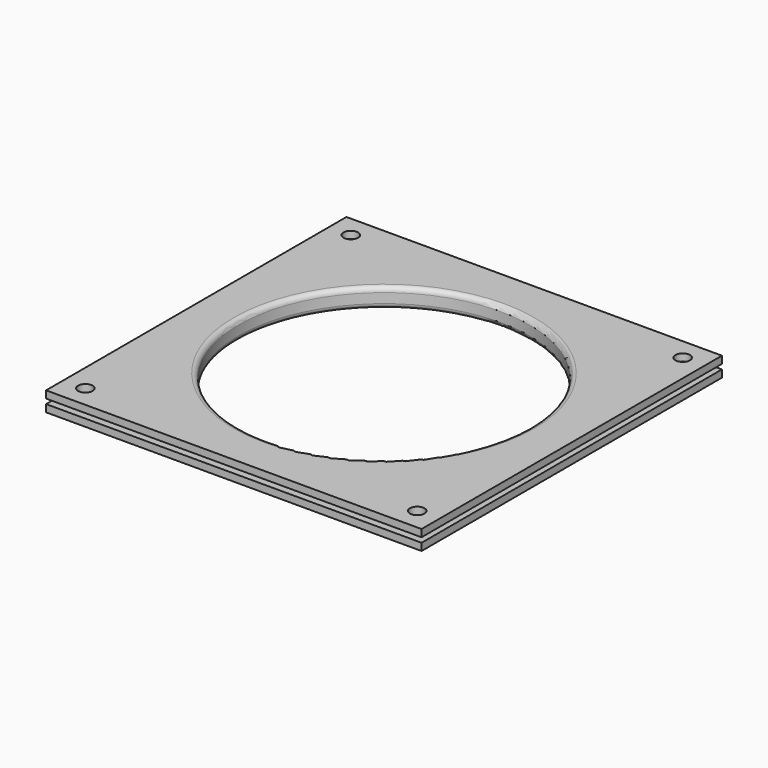
from build123d import *

# Parameters (mm, degrees)
CYLINDER058_R     = 3
CYLINDER058_DEPTH = 4
CYLINDER059_R     = 3
CYLINDER059_DEPTH = 4
CYLINDER060_R     = 3
CYLINDER060_DEPTH = 4
CYLINDER061_R     = 3
CYLINDER061_DEPTH = 4
CYLINDER062_R     = 3
CYLINDER062_DEPTH = 4
CYLINDER063_R     = 3
CYLINDER063_DEPTH = 4
CYLINDER064_R     = 3
CYLINDER064_DEPTH = 4
CYLINDER065_R     = 3
CYLINDER065_DEPTH = 4
CYLINDER056_R     = 60
CYLINDER056_DEPTH = 8
BOX015_W          = 155
BOX015_H          = 155
BOX015_DEPTH      = 3
CYLINDER057_R     = 65
CYLINDER057_DEPTH = 8
BOX016_W          = 155
BOX016_H          = 155
BOX016_DEPTH      = 3
FILLET008_R       = 2


with BuildPart() as cylinder086:
    # Cylinder058 → Cylinder058 (new body)
    with BuildSketch(Plane(origin=(35, 62.5, -30), x_dir=(1, 0, 0), z_dir=(0, 0, 1))):
        Circle(CYLINDER058_R)
    extrude(amount=CYLINDER058_DEPTH)


with BuildPart() as cylinder087:
    # Cylinder059 → Cylinder059 (new body)
    with BuildSketch(Plane(origin=(35, -62.5, -30), x_dir=(1, 0, 0), z_dir=(0, 0, 1))):
        Circle(CYLINDER059_R)
    extrude(amount=CYLINDER059_DEPTH)


with BuildPart() as cylinder088:
    # Cylinder060 → Cylinder060 (new body)
    with BuildSketch(Plane(origin=(-90, 62.5, -30), x_dir=(1, 0, 0), z_dir=(0, 0, 1))):
        Circle(CYLINDER060_R)
    extrude(amount=CYLINDER060_DEPTH)


with BuildPart() as lower_plate_screw_holes:
    # Cylinder061 → Cylinder061 (new body)
    with BuildSketch(Plane(origin=(-90, -62.5, -30), x_dir=(1, 0, 0), z_dir=(0, 0, 1))):
        Circle(CYLINDER061_R)
    extrude(amount=CYLINDER061_DEPTH)

    # Fusion025: union Cylinder086, Cylinder087, Cylinder088
    add(cylinder086.part)
    add(cylinder087.part)
    add(cylinder088.part)


with BuildPart() as cylinder090:
    # Cylinder062 → Cylinder062 (new body)
    with BuildSketch(Plane(origin=(41, -68.5, -26), x_dir=(1, 0, 0), z_dir=(0, 0, 1))):
        Circle(CYLINDER062_R)
    extrude(amount=CYLINDER062_DEPTH)


with BuildPart() as cylinder091:
    # Cylinder063 → Cylinder063 (new body)
    with BuildSketch(Plane(origin=(-96, 68.5, -26), x_dir=(1, 0, 0), z_dir=(0, 0, 1))):
        Circle(CYLINDER063_R)
    extrude(amount=CYLINDER063_DEPTH)


with BuildPart() as cylinder092:
    # Cylinder064 → Cylinder064 (new body)
    with BuildSketch(Plane(origin=(41, 68.5, -26), x_dir=(1, 0, 0), z_dir=(0, 0, 1))):
        Circle(CYLINDER064_R)
    extrude(amount=CYLINDER064_DEPTH)


with BuildPart() as obj1:
    # Cylinder065 → Cylinder065 (new body)
    with BuildSketch(Plane(origin=(-96, -68.5, -26), x_dir=(1, 0, 0), z_dir=(0, 0, 1))):
        Circle(CYLINDER065_R)
    extrude(amount=CYLINDER065_DEPTH)

    # Fusion026: union Cylinder090, Cylinder091, Cylinder092
    add(cylinder090.part)
    add(cylinder091.part)
    add(cylinder092.part)

    # Fusion027: union lower plate screw holes
    add(lower_plate_screw_holes.part)


with BuildPart() as cylinder084:
    # Cylinder056 → Cylinder056 (new body)
    with BuildSketch(Plane(origin=(77.5, 77.5, -30), x_dir=(1, 0, 0), z_dir=(0, 0, 1))):
        Circle(CYLINDER056_R)
    extrude(amount=CYLINDER056_DEPTH)


with BuildPart() as cube008:
    # Box015 → Box015 (new body)
    with BuildSketch(Plane.XY.offset(-25)):
        with Locations((77.5, 77.5)):
            Rectangle(BOX015_W, BOX015_H)
    extrude(amount=BOX015_DEPTH)


with BuildPart() as cylinder085:
    # Cylinder057 → Cylinder057 (new body)
    with BuildSketch(Plane(origin=(77.5, 77.5, -30), x_dir=(1, 0, 0), z_dir=(0, 0, 1))):
        Circle(CYLINDER057_R)
    extrude(amount=CYLINDER057_DEPTH)


with BuildPart() as obj2:
    # Box016 → Box016 (new body)
    with BuildSketch(Plane.XY.offset(-30)):
        with Locations((77.5, 77.5)):
            Rectangle(BOX016_W, BOX016_H)
    extrude(amount=BOX016_DEPTH)

    # Fusion024: union Cube008, Cylinder085
    add(cube008.part)
    add(cylinder085.part)

    # Cut022: cut Cylinder084
    add(cylinder084.part, mode=Mode.SUBTRACT)


with BuildPart() as obj2_1:
    # Cut022 placement: moved
    add(obj2.part.moved(Location((-105, -77.5, 0))))

    # Fillet008
    fillet008_edges = [obj2_1.edges().sort_by_distance(p)[0] for p in [
        (-87.5, 0, -22),
        (-87.5, 0, -30),
    ]]
    fillet(fillet008_edges, radius=FILLET008_R)

    # Cut023: cut obj1
    add(obj1.part, mode=Mode.SUBTRACT)


with BuildPart() as obj2_2:
    # Cut023 placement: moved
    add(obj2_1.part.moved(Location((0, 0, -40))))


solid = obj2_2.part
